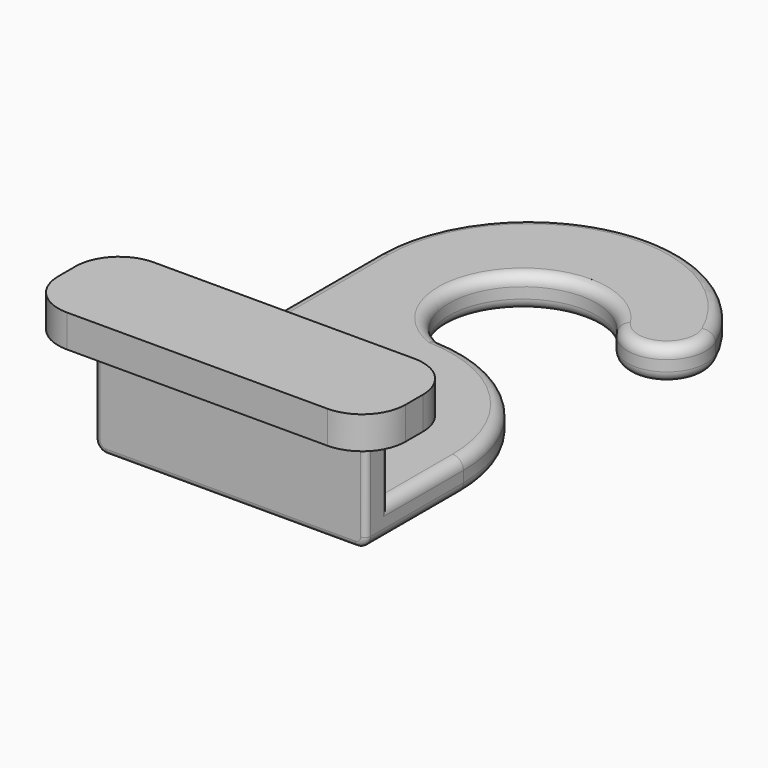
from build123d import *

# Parameters (mm, degrees)
F0_W     = 25
F0_H     = 3.598708484
F0_H_2   = 2.5
F1_DEPTH = 3
F2_DEPTH = 10
F3_START = 10
F3_DEPTH = 3
F4_R     = 4
F5_R     = 1
F6_R     = 0.5


with BuildPart() as f1:
    # F0 (on Top) → F1 (new body)
    with BuildSketch(Plane.XY):
        with BuildLine():
            Line((-12.0194856117, 31.2152840197), (-12.0194856117, 4.7718174662))
            Line((-12.0194856117, 4.7718174662), (12.9805143883, 4.7718174662))
            Line((12.9805143883, 4.7718174662), (12.9805143883, 9.8692406903))
            ThreePointArc((12.9805143883, 9.8692406903), (9.2091630199, 19.2346795626), (0, 23.3730189502))
            ThreePointArc((0, 23.3730189502), (-2.5235742208, 33.9593593839), (8.340984877, 33.3265985788))
            ThreePointArc((8.340984877, 33.3265985788), (13.0836829302, 32.1289610754), (14.685023576, 36.750998348))
            ThreePointArc((14.685023576, 36.750998348), (-0.9201685744, 44.8514028231), (-12.0194856117, 31.2152840197))
        make_face()
        with Locations((0.4805143883, 2.9724632242)):
            Rectangle(F0_W, F0_H)
        with Locations((0.4805143883, -0.0768910178)):
            Rectangle(F0_W, F0_H_2)
    extrude(amount=F1_DEPTH)

    # F0 (on Top) → F2 (join)
    with BuildSketch(Plane.XY):
        with Locations((0.4805143883, -0.0768910178)):
            Rectangle(F0_W, F0_H_2)
    extrude(amount=F2_DEPTH)

    # F0 (on Top) → F3 (join)
    with BuildSketch(Plane.XY.offset(F3_START)):
        with Locations((0.4805143883, 2.9724632242)):
            Rectangle(F0_W, F0_H)
        Polygon((-12.0194856117, -1.3268910178), (-12.0194856117, 1.1731089822), (-12.0194856117, 4.7718174662), (-15.4697376937, 4.7718174662), (-15.4697376937, -5.2281825338), (16.5302623063, -5.2281825338), (16.5302623063, 4.7718174662), (12.9805143883, 4.7718174662), (12.9805143883, 1.1731089822), (12.9805143883, -1.3268910178), align=None)
        with Locations((0.4805143883, -0.0768910178)):
            Rectangle(F0_W, F0_H_2)
    extrude(amount=F3_DEPTH)

    # F4
    f4_edges = [f1.edges().sort_by_distance(p)[0] for p in [
        (16.530262, -5.228183, 11.5),
        (16.530262, 4.771817, 11.5),
        (-15.469738, -5.228183, 11.5),
        (-15.469738, 4.771817, 11.5),
    ]]
    fillet(f4_edges, radius=F4_R)

    # F5
    f5_edges = [f1.edges().sort_by_distance(p)[0] for p in [
        (-2.523574, 33.959359, 3),
        (9.209163, 19.23468, 3),
        (12.980514, 5.521175, 3),
        (-0.920169, 44.851403, 0),
        (13.083683, 32.128961, 0),
        (-2.523574, 33.959359, 0),
        (9.209163, 19.23468, 0),
        (12.980514, 4.271175, 0),
        (-12.019486, 14.944197, 0),
    ]]
    fillet(f5_edges, radius=F5_R)

    # F6
    f6_edges = [f1.edges().sort_by_distance(p)[0] for p in [
        (12.980514, 1.173109, 6.5),
        (-12.019486, 1.173109, 6.5),
        (-12.019486, -1.326891, 5.5),
    ]]
    fillet(f6_edges, radius=F6_R)


solid = f1.part
